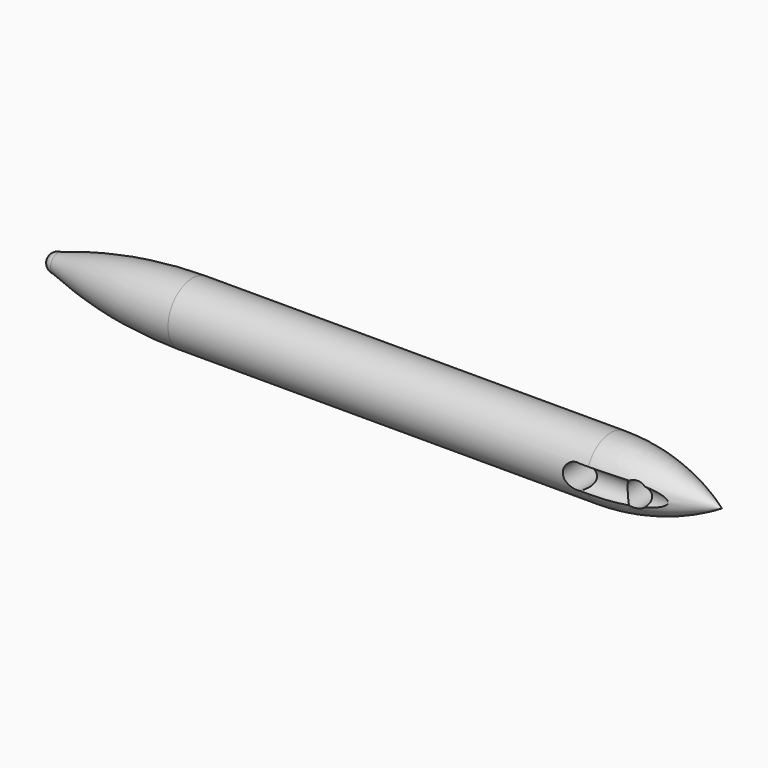
from build123d import *

# Parameters (mm, degrees)
F2_R     = 2
F3_DEPTH = 12.5
F5_R     = 2
F6_DEPTH = 25


with BuildPart() as f1:
    # F0 (on Top) → F1 (revolve)
    with BuildSketch(Plane.XY):
        with BuildLine():
            Line((32.238782, 5), (-36.118835, 5))
            ThreePointArc((-36.118835, 5), (-47.25717, 4.119532), (-58.118835, 1.5))
            ThreePointArc((-58.118835, 1.5), (-59.179495, 1.06066), (-59.618835, 0))
            Line((-59.618835, 0), (-58.118835, 0))
            Line((-58.118835, 0), (-36.118835, 0))
            Line((-36.118835, 0), (32.238782, 0))
            Line((32.238782, 0), (50.381165, 0))
            ThreePointArc((50.381165, 0), (41.648166, 3.727125), (32.238782, 5))
        make_face()
    revolve(axis=Axis((-7.075977, 0, 0), (1, 0, 0)))

    # F2 (on Front) → F3 (cut, symmetric)
    with BuildSketch(Plane.XZ):
        with Locations((30.381165, 0)):
            Circle(F2_R)
        with Locations((39.381165, 0)):
            Circle(F2_R)
    extrude(amount=F3_DEPTH, both=True, mode=Mode.SUBTRACT)

    # F5 (on offset) → F6 (cut)
    with BuildSketch(Plane.YZ.offset(30)):
        with Locations((5, 0)):
            Circle(F5_R)
        with Locations((-5, 0)):
            Circle(F5_R)
    extrude(amount=F6_DEPTH, mode=Mode.SUBTRACT)


solid = f1.part
